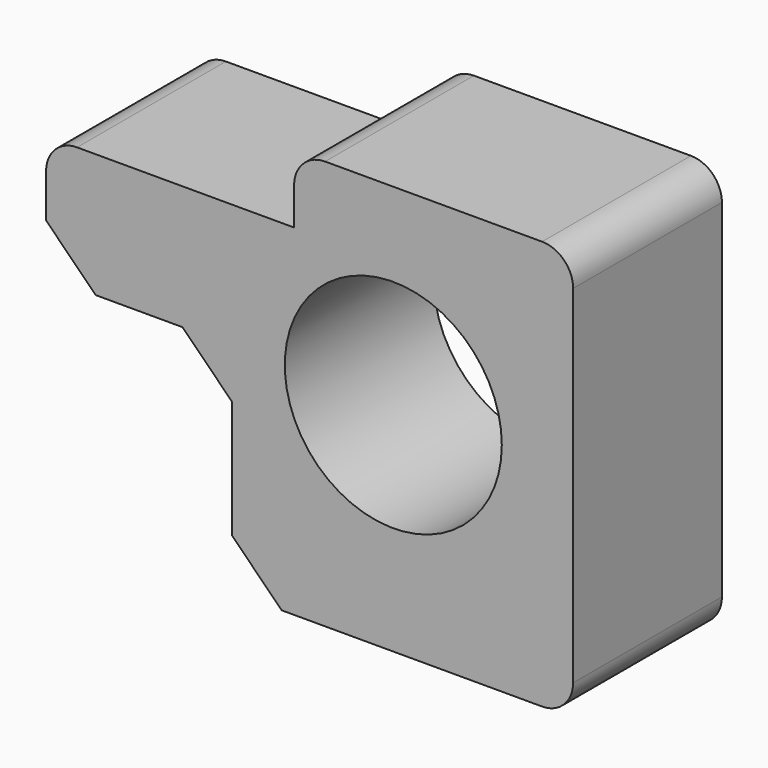
from build123d import *

# Parameters (mm, degrees)
F0_R     = 17.5
F1_DEPTH = 30
F2_R     = 5
F3_SIZE  = 8


with BuildPart() as f1:
    # F0 (on Front) → F1 (new body)
    with BuildSketch(Plane.XZ):
        Polygon((0, 35), (0, 0), (55, 0), (55, 66), (10, 66), (10, 55), (-30, 55), (-30, 35), align=None)
        with Locations((26, 35)):
            Circle(F0_R, mode=Mode.SUBTRACT)
    extrude(amount=F1_DEPTH)

    # F2
    f2_edges = [f1.edges().sort_by_distance(p)[0] for p in [
        (10, -15, 66),
        (55, -15, 66),
        (55, -15, 0),
        (-30, -15, 55),
    ]]
    fillet(f2_edges, radius=F2_R)

    # F3
    f3_edges = [f1.edges().sort_by_distance(p)[0] for p in [
        (0, -15, 35),
        (-30, -15, 35),
        (0, -15, 0),
    ]]
    chamfer(f3_edges, length=F3_SIZE)


solid = f1.part
